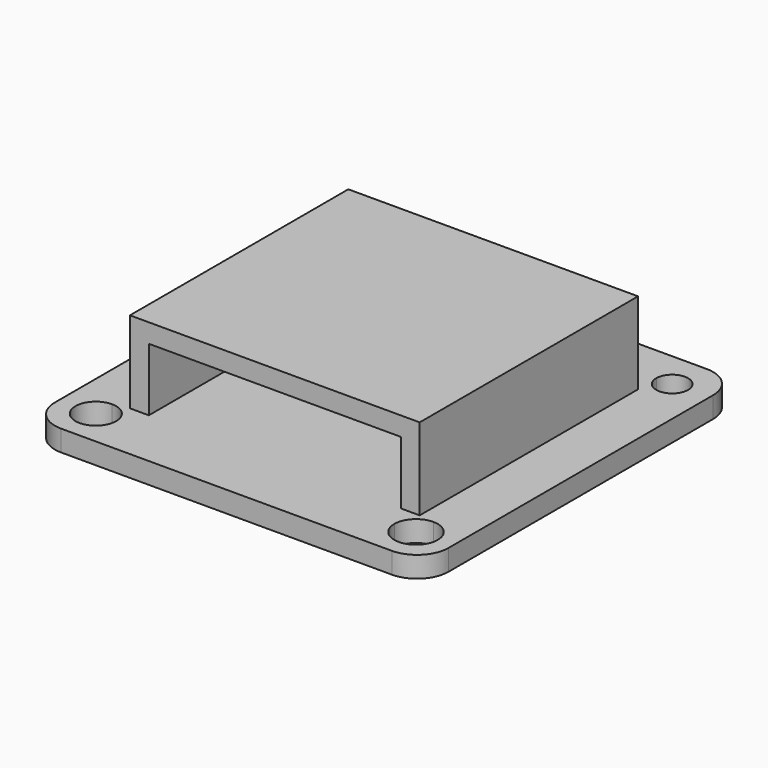
from build123d import *

# Parameters (mm, degrees)
F1_DEPTH = 2
F2_W     = 1.8
F2_H     = 26
F3_DEPTH = 8
F4_W     = 27.6
F4_H     = 26
F5_DEPTH = 1.8


with BuildPart() as f1:
    # F0 (on Top) → F1 (new body)
    with BuildSketch(Plane.XY):
        with BuildLine():
            Line((15.75, 18.75), (-15.75, 18.75))
            ThreePointArc((-15.75, 18.75), (-17.8713203436, 17.8713203436), (-18.75, 15.75))
            Line((-18.75, 15.75), (-18.75, -15.75))
            ThreePointArc((-18.75, -15.75), (-17.8713203436, -17.8713203436), (-15.75, -18.75))
            Line((-15.75, -18.75), (15.75, -18.75))
            ThreePointArc((15.75, -18.75), (17.8713203436, -17.8713203436), (18.75, -15.75))
            Line((18.75, -15.75), (18.75, 15.75))
            ThreePointArc((18.75, 15.75), (17.8713203436, 17.8713203436), (15.75, 18.75))
        make_face()
        with BuildLine():
            ThreePointArc((-15.25, 13.75), (-16.3106601718, 16.3106601718), (-13.75, 15.25))
            Line((-13.75, 15.25), (13.734903335, 15.25))
            ThreePointArc((13.734903335, 15.25), (15.25, 16.765096665), (16.765096665, 15.25))
            ThreePointArc((16.765096665, 15.25), (16.321335126, 14.178664874), (15.25, 13.734903335))
            Line((15.25, 13.734903335), (15.25, -13.1845953413))
            ThreePointArc((15.25, -13.1845953413), (16.7104616401, -13.7895383599), (17.3154046587, -15.25))
            ThreePointArc((17.3154046587, -15.25), (15.25, -17.3154046587), (13.1845953413, -15.25))
            Line((13.1845953413, -15.25), (-13.3112718243, -15.25))
            ThreePointArc((-13.3112718243, -15.25), (-16.6208878399, -16.6208878399), (-15.25, -13.3112718243))
            Line((-15.25, -13.3112718243), (-15.25, 13.75))
        make_face(mode=Mode.SUBTRACT)
        with BuildLine():
            Line((13.734903335, 15.25), (-13.75, 15.25))
            ThreePointArc((-13.75, 15.25), (-14.1893398282, 14.1893398282), (-15.25, 13.75))
            Line((-15.25, 13.75), (-15.25, -13.3112718243))
            ThreePointArc((-15.25, -13.3112718243), (-13.8791121601, -13.8791121601), (-13.3112718243, -15.25))
            Line((-13.3112718243, -15.25), (13.1845953413, -15.25))
            ThreePointArc((13.1845953413, -15.25), (13.7895383599, -13.7895383599), (15.25, -13.1845953413))
            Line((15.25, -13.1845953413), (15.25, 13.734903335))
            ThreePointArc((15.25, 13.734903335), (14.178664874, 14.178664874), (13.734903335, 15.25))
        make_face()
    extrude(amount=F1_DEPTH)

    # F2 (on Top) → F3 (join)
    with BuildSketch(Plane.XY):
        with Locations((-12.9, 0)):
            Rectangle(F2_W, F2_H)
        with Locations((12.9, 0)):
            Rectangle(F2_W, F2_H)
    extrude(amount=F3_DEPTH)

    # F4 (on face) → F5 (join)
    with BuildSketch(Plane.XY.offset(8)):
        Rectangle(F4_W, F4_H)
    extrude(amount=F5_DEPTH)


solid = f1.part
